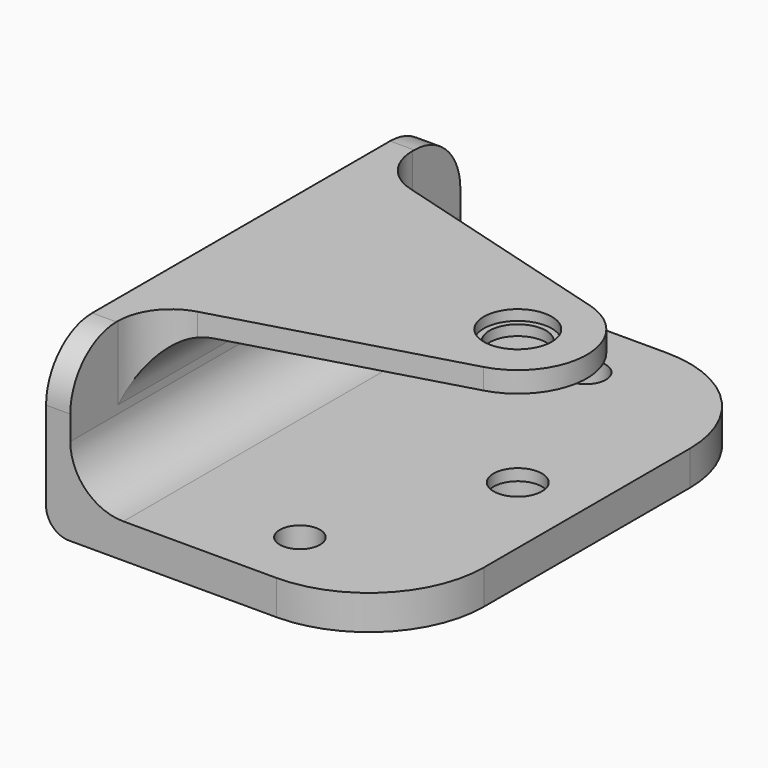
from build123d import *

# Parameters (mm, degrees)
F1_DEPTH      = 26.8605
F2_R          = 2.667
F2_R_2        = 2.2225
F3_DEPTH      = 3.811
F3_DEPTH_BACK = 14.86
F4_R          = 2.2225
F5_DEPTH      = 2.286
F6_R          = 3.7465
F6_R_2        = 2.667
F7_DEPTH      = 1.143
F8_R          = 5.842
F9_R          = 6.35
F10_R         = 12.7
F11_R         = 2.54
F12_R         = 3.1115
F12_R_2       = 2.667
F13_DEPTH     = 1.143
F14_R         = 3.3655
F14_R_2       = 2.667
F15_DEPTH     = 2.54


with BuildPart() as f1:
    # F0 (on Front) → F1 (new body, symmetric)
    with BuildSketch(Plane.XZ):
        Polygon((0, 0), (38.1, 0), (38.1, 3.81), (2.667, 3.81), (2.667, 16.383), (38.1, 16.383), (38.1, 18.669), (0, 18.669), align=None)
    extrude(amount=F1_DEPTH, both=True)

    # F2 (on face) → F3 (cut, two sides)
    with BuildSketch(Plane.XY.offset(3.81)) as f3_sk:
        with Locations((30.48, 0)):
            Circle(F2_R)
        with Locations((22.225, 19.685)):
            Circle(F2_R_2)
        with Locations((22.225, -19.685)):
            Circle(F2_R_2)
    extrude(amount=-F3_DEPTH, mode=Mode.SUBTRACT)
    extrude(f3_sk.sketch, amount=F3_DEPTH_BACK, mode=Mode.SUBTRACT)

    # F4 (on face) → F5 (cut, through all)
    with BuildSketch(Plane.XY.offset(18.669)):
        with BuildLine():
            ThreePointArc((32.5741697301, 7.3265853671), (36.5636655621, 4.5883998658), (38.1, 0))
            Line((38.1, 0), (38.1, 26.8605))
            Line((38.1, 26.8605), (2.667, 26.8605))
            Line((2.667, 26.8605), (2.667, 15.875))
            Line((2.667, 15.875), (32.5741697301, 7.3265853671))
        make_face()
        with Locations((22.225, 19.685)):
            Circle(F4_R, mode=Mode.SUBTRACT)
        with BuildLine():
            Line((38.1, -26.8605), (38.1, 0))
            ThreePointArc((38.1, 0), (36.5636655621, -4.5883998658), (32.5741697301, -7.3265853671))
            Line((32.5741697301, -7.3265853671), (2.667, -15.875))
            Line((2.667, -15.875), (2.667, -26.8605))
            Line((2.667, -26.8605), (38.1, -26.8605))
        make_face()
        with Locations((22.225, -19.685)):
            Circle(F4_R, mode=Mode.SUBTRACT)
    extrude(amount=-F5_DEPTH, mode=Mode.SUBTRACT)

    # F6 (on face) → F7 (cut)
    with BuildSketch(Plane.XY.offset(18.669)):
        with Locations((30.48, 0)):
            Circle(F6_R)
        with Locations((30.48, 0)):
            Circle(F6_R_2, mode=Mode.SUBTRACT)
    extrude(amount=-F7_DEPTH, mode=Mode.SUBTRACT)

    # F8
    f8_edges = [f1.edges().sort_by_distance(p)[0] for p in [
        (2.667, 0, 3.81),
        (2.667, 0, 16.383),
        (2.667, 15.875, 17.526),
        (2.667, -15.875, 17.526),
    ]]
    fillet(f8_edges, radius=F8_R)

    # F9
    f9_edges = [f1.edges().sort_by_distance(p)[0] for p in [
        (1.3335, 26.8605, 18.669),
        (1.3335, -26.8605, 18.669),
    ]]
    fillet(f9_edges, radius=F9_R)

    # F10
    f10_edges = [f1.edges().sort_by_distance(p)[0] for p in [
        (38.1, 26.8605, 1.905),
        (38.1, -26.8605, 1.905),
    ]]
    fillet(f10_edges, radius=F10_R)

    # F11
    f11_edges = [f1.edges().sort_by_distance(p)[0] for p in [
        (0, 0, 0),
    ]]
    fillet(f11_edges, radius=F11_R)

    # F12 (on face) → F13 (cut, through all)
    with BuildSketch(Plane.XY.offset(17.526)):
        with Locations((30.48, 0)):
            Circle(F12_R)
        with Locations((30.48, 0)):
            Circle(F12_R_2, mode=Mode.SUBTRACT)
    extrude(amount=-F13_DEPTH, mode=Mode.SUBTRACT)

    # F14 (on face) → F15 (cut)
    with BuildSketch(Plane(origin=(0, 0, 0), x_dir=(1, 0, 0), z_dir=(0, 0, -1))):
        with Locations((30.48, 0)):
            Circle(F14_R)
        with Locations((30.48, 0)):
            Circle(F14_R_2, mode=Mode.SUBTRACT)
    extrude(amount=-F15_DEPTH, mode=Mode.SUBTRACT)


solid = f1.part
